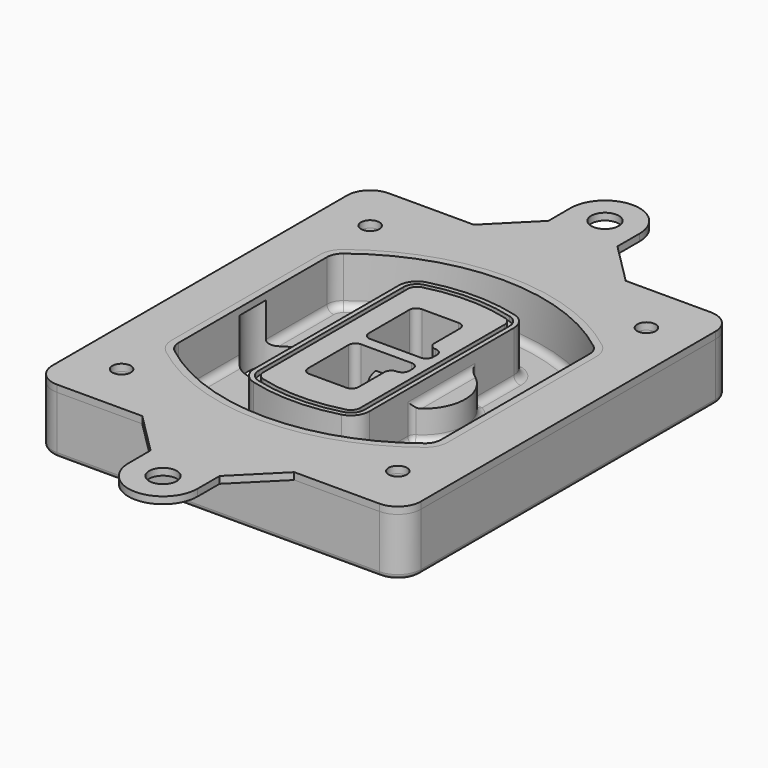
from build123d import *

# Parameters (mm, degrees)
F0_R      = 4
F1_DEPTH  = 25
F2_DEPTH  = 3
F3_DEPTH  = 18
F5_DEPTH  = 21
F6_DEPTH  = 2
F8_DEPTH  = 20
F9_DEPTH  = 16
F10_DEPTH = 25
F7_R      = 6
F7_R_2    = 4
F11_DEPTH = 6
F13_DEPTH = 9
F14_R     = 3
F15_R     = 2
F16_R     = 6
F16_R_2   = 4
F17_DEPTH = 3


with BuildPart() as f1:
    # F0 (on Top) → F1 (new body)
    with BuildSketch(Plane.XY):
        with BuildLine():
            ThreePointArc((-80, -80), (-77.0710678119, -87.0710678119), (-70, -90))
            Line((-70, -90), (70, -90))
            ThreePointArc((70, -90), (77.0710678119, -87.0710678119), (80, -80))
            Line((80, -80), (80, 80))
            ThreePointArc((80, 80), (77.0710678119, 87.0710678119), (70, 90))
            Line((70, 90), (-70, 90))
            ThreePointArc((-70, 90), (-77.0710678119, 87.0710678119), (-80, 80))
            Line((-80, 80), (-80, -80))
        make_face()
        with Locations((-60, -67.5)):
            Circle(F0_R, mode=Mode.SUBTRACT)
        with Locations((60, -67.5)):
            Circle(F0_R, mode=Mode.SUBTRACT)
        with Locations((-60, 67.5)):
            Circle(F0_R, mode=Mode.SUBTRACT)
        with BuildLine():
            ThreePointArc((-64, 40.2934422872), (-62.5820384798, 46.4328484224), (-58.6153846154, 51.3286200352))
            ThreePointArc((-58.6153846154, 51.3286200352), (0, 71.5), (58.6153846154, 51.3286200352))
            ThreePointArc((58.6153846154, 51.3286200352), (62.5820384798, 46.4328484224), (64, 40.2934422872))
            Line((64, 40.2934422872), (64, -40.2934422872))
            ThreePointArc((64, -40.2934422872), (62.5820384798, -46.4328484224), (58.6153846154, -51.3286200352))
            ThreePointArc((58.6153846154, -51.3286200352), (0, -71.5), (-58.6153846154, -51.3286200352))
            ThreePointArc((-58.6153846154, -51.3286200352), (-62.5820384798, -46.4328484224), (-64, -40.2934422872))
            Line((-64, -40.2934422872), (-64, 40.2934422872))
        make_face(mode=Mode.SUBTRACT)
        with Locations((60, 67.5)):
            Circle(F0_R, mode=Mode.SUBTRACT)
        with BuildLine():
            ThreePointArc((58.6153846154, 51.3286200352), (0, 71.5), (-58.6153846154, 51.3286200352))
            ThreePointArc((-58.6153846154, 51.3286200352), (-62.5820384798, 46.4328484224), (-64, 40.2934422872))
            Line((-64, 40.2934422872), (-64, -40.2934422872))
            ThreePointArc((-64, -40.2934422872), (-62.5820384798, -46.4328484224), (-58.6153846154, -51.3286200352))
            ThreePointArc((-58.6153846154, -51.3286200352), (0, -71.5), (58.6153846154, -51.3286200352))
            ThreePointArc((58.6153846154, -51.3286200352), (62.5820384798, -46.4328484224), (64, -40.2934422872))
            Line((64, -40.2934422872), (64, 40.2934422872))
            ThreePointArc((64, 40.2934422872), (62.5820384798, 46.4328484224), (58.6153846154, 51.3286200352))
        make_face()
        with BuildLine():
            Line((-60, -40.2934422872), (-60, 40.2934422872))
            ThreePointArc((-60, 40.2934422872), (-58.9871703427, 44.6787323838), (-56.1538461538, 48.1757121072))
            ThreePointArc((-56.1538461538, 48.1757121072), (0, 67.5), (56.1538461538, 48.1757121072))
            ThreePointArc((56.1538461538, 48.1757121072), (58.9871703427, 44.6787323838), (60, 40.2934422872))
            Line((60, 40.2934422872), (60, -40.2934422872))
            ThreePointArc((60, -40.2934422872), (58.9871703427, -44.6787323838), (56.1538461538, -48.1757121072))
            ThreePointArc((56.1538461538, -48.1757121072), (0, -67.5), (-56.1538461538, -48.1757121072))
            ThreePointArc((-56.1538461538, -48.1757121072), (-58.9871703427, -44.6787323838), (-60, -40.2934422872))
        make_face(mode=Mode.SUBTRACT)
        with BuildLine():
            ThreePointArc((-56.1538461538, 48.1757121072), (-58.9871703427, 44.6787323838), (-60, 40.2934422872))
            Line((-60, 40.2934422872), (-60, -40.2934422872))
            ThreePointArc((-60, -40.2934422872), (-58.9871703427, -44.6787323838), (-56.1538461538, -48.1757121072))
            ThreePointArc((-56.1538461538, -48.1757121072), (0, -67.5), (56.1538461538, -48.1757121072))
            ThreePointArc((56.1538461538, -48.1757121072), (58.9871703427, -44.6787323838), (60, -40.2934422872))
            Line((60, -40.2934422872), (60, 40.2934422872))
            ThreePointArc((60, 40.2934422872), (58.9871703427, 44.6787323838), (56.1538461538, 48.1757121072))
            ThreePointArc((56.1538461538, 48.1757121072), (0, 67.5), (-56.1538461538, 48.1757121072))
        make_face()
        with BuildLine():
            ThreePointArc((54.3076923077, 45.8110311612), (56.2910192399, 43.3631453548), (57, 40.2934422872))
            Line((57, 40.2934422872), (57, -40.2934422872))
            ThreePointArc((57, -40.2934422872), (56.2910192399, -43.3631453548), (54.3076923077, -45.8110311612))
            ThreePointArc((54.3076923077, -45.8110311612), (0, -64.5), (-54.3076923077, -45.8110311612))
            ThreePointArc((-54.3076923077, -45.8110311612), (-56.2910192399, -43.3631453548), (-57, -40.2934422872))
            Line((-57, -40.2934422872), (-57, 40.2934422872))
            ThreePointArc((-57, 40.2934422872), (-56.2910192399, 43.3631453548), (-54.3076923077, 45.8110311612))
            ThreePointArc((-54.3076923077, 45.8110311612), (0, 64.5), (54.3076923077, 45.8110311612))
        make_face(mode=Mode.SUBTRACT)
        with BuildLine():
            Line((57, -40.2934422872), (57, 40.2934422872))
            ThreePointArc((57, 40.2934422872), (56.2910192399, 43.3631453548), (54.3076923077, 45.8110311612))
            ThreePointArc((54.3076923077, 45.8110311612), (0, 64.5), (-54.3076923077, 45.8110311612))
            ThreePointArc((-54.3076923077, 45.8110311612), (-56.2910192399, 43.3631453548), (-57, 40.2934422872))
            Line((-57, 40.2934422872), (-57, -40.2934422872))
            ThreePointArc((-57, -40.2934422872), (-56.2910192399, -43.3631453548), (-54.3076923077, -45.8110311612))
            ThreePointArc((-54.3076923077, -45.8110311612), (0, -64.5), (54.3076923077, -45.8110311612))
            ThreePointArc((54.3076923077, -45.8110311612), (56.2910192399, -43.3631453548), (57, -40.2934422872))
        make_face()
    extrude(amount=-F1_DEPTH)

    # F0 (on Top) → F2 (join)
    with BuildSketch(Plane.XY):
        with BuildLine():
            ThreePointArc((-56.1538461538, 48.1757121072), (-58.9871703427, 44.6787323838), (-60, 40.2934422872))
            Line((-60, 40.2934422872), (-60, -40.2934422872))
            ThreePointArc((-60, -40.2934422872), (-58.9871703427, -44.6787323838), (-56.1538461538, -48.1757121072))
            ThreePointArc((-56.1538461538, -48.1757121072), (0, -67.5), (56.1538461538, -48.1757121072))
            ThreePointArc((56.1538461538, -48.1757121072), (58.9871703427, -44.6787323838), (60, -40.2934422872))
            Line((60, -40.2934422872), (60, 40.2934422872))
            ThreePointArc((60, 40.2934422872), (58.9871703427, 44.6787323838), (56.1538461538, 48.1757121072))
            ThreePointArc((56.1538461538, 48.1757121072), (0, 67.5), (-56.1538461538, 48.1757121072))
        make_face()
        with BuildLine():
            ThreePointArc((54.3076923077, 45.8110311612), (56.2910192399, 43.3631453548), (57, 40.2934422872))
            Line((57, 40.2934422872), (57, -40.2934422872))
            ThreePointArc((57, -40.2934422872), (56.2910192399, -43.3631453548), (54.3076923077, -45.8110311612))
            ThreePointArc((54.3076923077, -45.8110311612), (0, -64.5), (-54.3076923077, -45.8110311612))
            ThreePointArc((-54.3076923077, -45.8110311612), (-56.2910192399, -43.3631453548), (-57, -40.2934422872))
            Line((-57, -40.2934422872), (-57, 40.2934422872))
            ThreePointArc((-57, 40.2934422872), (-56.2910192399, 43.3631453548), (-54.3076923077, 45.8110311612))
            ThreePointArc((-54.3076923077, 45.8110311612), (0, 64.5), (54.3076923077, 45.8110311612))
        make_face(mode=Mode.SUBTRACT)
    extrude(amount=F2_DEPTH)

    # F0 (on Top) → F3 (cut)
    with BuildSketch(Plane.XY):
        with BuildLine():
            Line((57, -40.2934422872), (57, 40.2934422872))
            ThreePointArc((57, 40.2934422872), (56.2910192399, 43.3631453548), (54.3076923077, 45.8110311612))
            ThreePointArc((54.3076923077, 45.8110311612), (0, 64.5), (-54.3076923077, 45.8110311612))
            ThreePointArc((-54.3076923077, 45.8110311612), (-56.2910192399, 43.3631453548), (-57, 40.2934422872))
            Line((-57, 40.2934422872), (-57, -40.2934422872))
            ThreePointArc((-57, -40.2934422872), (-56.2910192399, -43.3631453548), (-54.3076923077, -45.8110311612))
            ThreePointArc((-54.3076923077, -45.8110311612), (0, -64.5), (54.3076923077, -45.8110311612))
            ThreePointArc((54.3076923077, -45.8110311612), (56.2910192399, -43.3631453548), (57, -40.2934422872))
        make_face()
    extrude(amount=-F3_DEPTH, mode=Mode.SUBTRACT)

    # F4 (on face) → F5 (join, through all)
    with BuildSketch(Plane.XY.offset(3)):
        with BuildLine():
            ThreePointArc((-25, -39.2465276821), (-23.3511545998, -44.1109737193), (-19.0842911877, -46.9702398883))
            ThreePointArc((-19.0842911877, -46.9702398883), (0, -49.5), (19.0842911877, -46.9702398883))
            ThreePointArc((19.0842911877, -46.9702398883), (23.3511545998, -44.1109737193), (25, -39.2465276821))
            Line((25, -39.2465276821), (25, 39.2465276821))
            ThreePointArc((25, 39.2465276821), (23.3511545998, 44.1109737193), (19.0842911877, 46.9702398883))
            ThreePointArc((19.0842911877, 46.9702398883), (0, 49.5), (-19.0842911877, 46.9702398883))
            ThreePointArc((-19.0842911877, 46.9702398883), (-23.3511545998, 44.1109737193), (-25, 39.2465276821))
            Line((-25, 39.2465276821), (-25, -39.2465276821))
        make_face()
        with BuildLine():
            ThreePointArc((18.5632183908, 45.0393118368), (21.7633659499, 42.89486221), (23, 39.2465276821))
            Line((23, 39.2465276821), (23, -39.2465276821))
            ThreePointArc((23, -39.2465276821), (21.7633659499, -42.89486221), (18.5632183908, -45.0393118368))
            ThreePointArc((18.5632183908, -45.0393118368), (0, -47.5), (-18.5632183908, -45.0393118368))
            ThreePointArc((-18.5632183908, -45.0393118368), (-21.7633659499, -42.89486221), (-23, -39.2465276821))
            Line((-23, -39.2465276821), (-23, 39.2465276821))
            ThreePointArc((-23, 39.2465276821), (-21.7633659499, 42.89486221), (-18.5632183908, 45.0393118368))
            ThreePointArc((-18.5632183908, 45.0393118368), (0, 47.5), (18.5632183908, 45.0393118368))
        make_face(mode=Mode.SUBTRACT)
        with BuildLine():
            Line((23, -39.2465276821), (23, 39.2465276821))
            ThreePointArc((23, 39.2465276821), (21.7633659499, 42.89486221), (18.5632183908, 45.0393118368))
            ThreePointArc((18.5632183908, 45.0393118368), (0, 47.5), (-18.5632183908, 45.0393118368))
            ThreePointArc((-18.5632183908, 45.0393118368), (-21.7633659499, 42.89486221), (-23, 39.2465276821))
            Line((-23, 39.2465276821), (-23, -39.2465276821))
            ThreePointArc((-23, -39.2465276821), (-21.7633659499, -42.89486221), (-18.5632183908, -45.0393118368))
            ThreePointArc((-18.5632183908, -45.0393118368), (0, -47.5), (18.5632183908, -45.0393118368))
            ThreePointArc((18.5632183908, -45.0393118368), (21.7633659499, -42.89486221), (23, -39.2465276821))
        make_face()
        with BuildLine():
            ThreePointArc((18.0421455939, 43.1083837852), (20.1755772999, 41.6787507007), (21, 39.2465276821))
            Line((21, 39.2465276821), (21, -39.2465276821))
            ThreePointArc((21, -39.2465276821), (20.1755772999, -41.6787507007), (18.0421455939, -43.1083837852))
            ThreePointArc((18.0421455939, -43.1083837852), (0, -45.5), (-18.0421455939, -43.1083837852))
            ThreePointArc((-18.0421455939, -43.1083837852), (-20.1755772999, -41.6787507007), (-21, -39.2465276821))
            Line((-21, -39.2465276821), (-21, 39.2465276821))
            ThreePointArc((-21, 39.2465276821), (-20.1755772999, 41.6787507007), (-18.0421455939, 43.1083837852))
            ThreePointArc((-18.0421455939, 43.1083837852), (0, 45.5), (18.0421455939, 43.1083837852))
        make_face(mode=Mode.SUBTRACT)
        with BuildLine():
            Line((21, -39.2465276821), (21, 39.2465276821))
            ThreePointArc((21, 39.2465276821), (20.1755772999, 41.6787507007), (18.0421455939, 43.1083837852))
            ThreePointArc((18.0421455939, 43.1083837852), (0, 45.5), (-18.0421455939, 43.1083837852))
            ThreePointArc((-18.0421455939, 43.1083837852), (-20.1755772999, 41.6787507007), (-21, 39.2465276821))
            Line((-21, 39.2465276821), (-21, -39.2465276821))
            ThreePointArc((-21, -39.2465276821), (-20.1755772999, -41.6787507007), (-18.0421455939, -43.1083837852))
            ThreePointArc((-18.0421455939, -43.1083837852), (0, -45.5), (18.0421455939, -43.1083837852))
            ThreePointArc((18.0421455939, -43.1083837852), (20.1755772999, -41.6787507007), (21, -39.2465276821))
        make_face()
        with BuildLine():
            Line((-8, -2.5), (14, -2.5))
            ThreePointArc((14, -2.5), (16.1213203436, -3.3786796564), (17, -5.5))
            Line((17, -5.5), (17, -7.5))
            ThreePointArc((17, -7.5), (16.1213203436, -9.6213203436), (14, -10.5))
            ThreePointArc((14, -10.5), (11.8786796564, -11.3786796564), (11, -13.5))
            Line((11, -13.5), (11, -27.5))
            ThreePointArc((11, -27.5), (10.1213203436, -29.6213203436), (8, -30.5))
            Line((8, -30.5), (-8, -30.5))
            ThreePointArc((-8, -30.5), (-10.1213203436, -29.6213203436), (-11, -27.5))
            Line((-11, -27.5), (-11, -5.5))
            ThreePointArc((-11, -5.5), (-10.1213203436, -3.3786796564), (-8, -2.5))
        make_face(mode=Mode.SUBTRACT)
        with BuildLine():
            ThreePointArc((-8, 2.5), (-10.1213203436, 3.3786796564), (-11, 5.5))
            Line((-11, 5.5), (-11, 27.5))
            ThreePointArc((-11, 27.5), (-10.1213203436, 29.6213203436), (-8, 30.5))
            Line((-8, 30.5), (8, 30.5))
            ThreePointArc((8, 30.5), (10.1213203436, 29.6213203436), (11, 27.5))
            Line((11, 27.5), (11, 13.5))
            ThreePointArc((11, 13.5), (11.8786796564, 11.3786796564), (14, 10.5))
            ThreePointArc((14, 10.5), (16.1213203436, 9.6213203436), (17, 7.5))
            Line((17, 7.5), (17, 5.5))
            ThreePointArc((17, 5.5), (16.1213203436, 3.3786796564), (14, 2.5))
            Line((14, 2.5), (-8, 2.5))
        make_face(mode=Mode.SUBTRACT)
    extrude(amount=-F5_DEPTH)

    # F4 (on face) → F6 (cut)
    with BuildSketch(Plane.XY.offset(3)):
        with BuildLine():
            Line((23, -39.2465276821), (23, 39.2465276821))
            ThreePointArc((23, 39.2465276821), (21.7633659499, 42.89486221), (18.5632183908, 45.0393118368))
            ThreePointArc((18.5632183908, 45.0393118368), (0, 47.5), (-18.5632183908, 45.0393118368))
            ThreePointArc((-18.5632183908, 45.0393118368), (-21.7633659499, 42.89486221), (-23, 39.2465276821))
            Line((-23, 39.2465276821), (-23, -39.2465276821))
            ThreePointArc((-23, -39.2465276821), (-21.7633659499, -42.89486221), (-18.5632183908, -45.0393118368))
            ThreePointArc((-18.5632183908, -45.0393118368), (0, -47.5), (18.5632183908, -45.0393118368))
            ThreePointArc((18.5632183908, -45.0393118368), (21.7633659499, -42.89486221), (23, -39.2465276821))
        make_face()
        with BuildLine():
            ThreePointArc((18.0421455939, 43.1083837852), (20.1755772999, 41.6787507007), (21, 39.2465276821))
            Line((21, 39.2465276821), (21, -39.2465276821))
            ThreePointArc((21, -39.2465276821), (20.1755772999, -41.6787507007), (18.0421455939, -43.1083837852))
            ThreePointArc((18.0421455939, -43.1083837852), (0, -45.5), (-18.0421455939, -43.1083837852))
            ThreePointArc((-18.0421455939, -43.1083837852), (-20.1755772999, -41.6787507007), (-21, -39.2465276821))
            Line((-21, -39.2465276821), (-21, 39.2465276821))
            ThreePointArc((-21, 39.2465276821), (-20.1755772999, 41.6787507007), (-18.0421455939, 43.1083837852))
            ThreePointArc((-18.0421455939, 43.1083837852), (0, 45.5), (18.0421455939, 43.1083837852))
        make_face(mode=Mode.SUBTRACT)
    extrude(amount=-F6_DEPTH, mode=Mode.SUBTRACT)

    # F7 (on face) → F8 (join)
    with BuildSketch(Plane(origin=(0, 0, -25), x_dir=(1, 0, 0), z_dir=(0, 0, -1))):
        with BuildLine():
            ThreePointArc((3.28842436, 0), (16.7567035675, 13.4682792075), (30.224982775, 0))
            Line((30.224982775, 0), (35.224982775, 0))
            ThreePointArc((35.224982775, 0), (16.7567035675, 18.4682792075), (-1.71157564, 0))
            Line((-1.71157564, 0), (3.28842436, 0))
        make_face()
        with BuildLine():
            Line((3.28842436, 0), (30.224982775, 0))
            ThreePointArc((30.224982775, 0), (16.7567035675, 13.4682792075), (3.28842436, 0))
        make_face()
        with BuildLine():
            ThreePointArc((3.28842436, 0), (16.7567035675, -13.4682792075), (30.224982775, 0))
            Line((30.224982775, 0), (3.28842436, 0))
        make_face()
        with BuildLine():
            Line((35.224982775, 0), (30.224982775, 0))
            ThreePointArc((30.224982775, 0), (16.7567035675, -13.4682792075), (3.28842436, 0))
            Line((3.28842436, 0), (-1.71157564, 0))
            ThreePointArc((-1.71157564, 0), (16.7567035675, -18.4682792075), (35.224982775, 0))
        make_face()
    extrude(amount=-F8_DEPTH)

    # F7 (on face) → F9 (cut)
    with BuildSketch(Plane(origin=(0, 0, -25), x_dir=(1, 0, 0), z_dir=(0, 0, -1))):
        with BuildLine():
            Line((3.28842436, 0), (30.224982775, 0))
            ThreePointArc((30.224982775, 0), (16.7567035675, 13.4682792075), (3.28842436, 0))
        make_face()
        with BuildLine():
            ThreePointArc((3.28842436, 0), (16.7567035675, -13.4682792075), (30.224982775, 0))
            Line((30.224982775, 0), (3.28842436, 0))
        make_face()
    extrude(amount=-F9_DEPTH, mode=Mode.SUBTRACT)

    # F7 (on face) → F10 (cut)
    with BuildSketch(Plane(origin=(0, 0, -25), x_dir=(1, 0, 0), z_dir=(0, 0, -1))):
        with BuildLine():
            Line((-59.0318229325, 0), (-32.0952645175, 0))
            ThreePointArc((-32.0952645175, 0), (-45.563543725, 13.4682792075), (-59.0318229325, 0))
        make_face()
        with BuildLine():
            ThreePointArc((-59.0318229325, 0), (-45.563543725, -13.4682792075), (-32.0952645175, 0))
            Line((-32.0952645175, 0), (-59.0318229325, 0))
        make_face()
    extrude(amount=-F10_DEPTH, mode=Mode.SUBTRACT)

    # F7 (on face) → F11 (cut)
    with BuildSketch(Plane(origin=(0, 0, -25), x_dir=(1, 0, 0), z_dir=(0, 0, -1))):
        with Locations((60, -67.5)):
            Circle(F7_R)
        with Locations((60, -67.5)):
            Circle(F7_R_2, mode=Mode.SUBTRACT)
        with Locations((60, -67.5)):
            Circle(F7_R)
        with Locations((60, -67.5)):
            Circle(F7_R_2, mode=Mode.SUBTRACT)
        with Locations((-60, -67.5)):
            Circle(F7_R)
        with Locations((-60, -67.5)):
            Circle(F7_R_2, mode=Mode.SUBTRACT)
        with Locations((-60, -67.5)):
            Circle(F7_R)
        with Locations((-60, -67.5)):
            Circle(F7_R_2, mode=Mode.SUBTRACT)
        with Locations((-60, 67.5)):
            Circle(F7_R)
        with Locations((-60, 67.5)):
            Circle(F7_R_2, mode=Mode.SUBTRACT)
        with Locations((-60, 67.5)):
            Circle(F7_R)
        with Locations((-60, 67.5)):
            Circle(F7_R_2, mode=Mode.SUBTRACT)
        with Locations((60, 67.5)):
            Circle(F7_R)
        with Locations((60, 67.5)):
            Circle(F7_R_2, mode=Mode.SUBTRACT)
        with Locations((60, 67.5)):
            Circle(F7_R)
        with Locations((60, 67.5)):
            Circle(F7_R_2, mode=Mode.SUBTRACT)
    extrude(amount=-F11_DEPTH, mode=Mode.SUBTRACT)

    # F12 (on face) → F13 (cut, through all)
    with BuildSketch(Plane(origin=(0, 0, -9), x_dir=(1, 0, 0), z_dir=(0, 0, -1))):
        with BuildLine():
            Line((11, 13.5), (11, 17.5481537753))
            ThreePointArc((11, 17.5481537753), (2.5696536419, 11.8239143813), (-1.5415842455, 2.5))
            Line((-1.5415842455, 2.5), (3.5224848595, 2.5))
            ThreePointArc((3.5224848595, 2.5), (6.1857188154, 8.3455872281), (11.2536447004, 12.2927168648))
            ThreePointArc((11.2536447004, 12.2927168648), (11.0640958889, 12.8831798879), (11, 13.5))
        make_face()
        with BuildLine():
            ThreePointArc((11.2536447004, -12.2927168648), (6.1857188154, -8.3455872281), (3.5224848595, -2.5))
            Line((3.5224848595, -2.5), (-1.5415842455, -2.5))
            ThreePointArc((-1.5415842455, -2.5), (2.5696536419, -11.8239143813), (11, -17.5481537753))
            Line((11, -17.5481537753), (11, -13.5))
            ThreePointArc((11, -13.5), (11.0640958889, -12.8831798879), (11.2536447004, -12.2927168648))
        make_face()
        with BuildLine():
            ThreePointArc((11.2536447004, 12.2927168648), (6.1857188154, 8.3455872281), (3.5224848595, 2.5))
            Line((3.5224848595, 2.5), (14, 2.5))
            ThreePointArc((14, 2.5), (16.1213203436, 3.3786796564), (17, 5.5))
            Line((17, 5.5), (17, 7.5))
            ThreePointArc((17, 7.5), (16.1213203436, 9.6213203436), (14, 10.5))
            ThreePointArc((14, 10.5), (12.3601599782, 10.9878446101), (11.2536447004, 12.2927168648))
        make_face()
        with BuildLine():
            Line((14, -2.5), (3.5224848595, -2.5))
            ThreePointArc((3.5224848595, -2.5), (6.1857188154, -8.3455872281), (11.2536447004, -12.2927168648))
            ThreePointArc((11.2536447004, -12.2927168648), (12.3601599782, -10.9878446101), (14, -10.5))
            ThreePointArc((14, -10.5), (16.1213203436, -9.6213203436), (17, -7.5))
            Line((17, -7.5), (17, -5.5))
            ThreePointArc((17, -5.5), (16.1213203436, -3.3786796564), (14, -2.5))
        make_face()
    extrude(amount=F13_DEPTH, mode=Mode.SUBTRACT)

    # F14
    f14_edges = [f1.edges().sort_by_distance(p)[0] for p in [
        (-57, -23.703476, -18),
        (-57, 23.703476, -18),
        (25, 0, -5),
        (25, 16.526506, -11.5),
        (25, -16.526506, -11.5),
        (25, -27.886517, -18),
        (35.224983, 0, -18),
    ]]
    fillet(f14_edges, radius=F14_R)

    # F15
    f15_edges = [f1.edges().sort_by_distance(p)[0] for p in [
        (0, -90, -25),
    ]]
    fillet(f15_edges, radius=F15_R)


with BuildPart() as f17:
    # F16 (on face) → F17 (new body, through all)
    with BuildSketch(Plane.XY):
        with BuildLine():
            Line((15, 108), (15, 120))
            ThreePointArc((15, 120), (0, 135), (-15, 120))
            Line((-15, 120), (-15, 108))
            Line((-15, 108), (-33, 90))
            Line((-33, 90), (33, 90))
            Line((33, 90), (15, 108))
        make_face()
        with Locations((0, 120)):
            Circle(F16_R, mode=Mode.SUBTRACT)
        with BuildLine():
            Line((15, -108), (33, -90))
            Line((33, -90), (-33, -90))
            Line((-33, -90), (-15, -108))
            Line((-15, -108), (-15, -120))
            ThreePointArc((-15, -120), (0, -135), (15, -120))
            Line((15, -120), (15, -108))
        make_face()
        with Locations((0, -120)):
            Circle(F16_R, mode=Mode.SUBTRACT)
        with BuildLine():
            Line((70, 90), (33, 90))
            Line((33, 90), (-33, 90))
            Line((-33, 90), (-70, 90))
            ThreePointArc((-70, 90), (-77.0710678119, 87.0710678119), (-80, 80))
            Line((-80, 80), (-80, -80))
            ThreePointArc((-80, -80), (-77.0710678119, -87.0710678119), (-70, -90))
            Line((-70, -90), (-33, -90))
            Line((-33, -90), (33, -90))
            Line((33, -90), (70, -90))
            ThreePointArc((70, -90), (77.0710678119, -87.0710678119), (80, -80))
            Line((80, -80), (80, 80))
            ThreePointArc((80, 80), (77.0710678119, 87.0710678119), (70, 90))
        make_face()
        with Locations((-60, -67.5)):
            Circle(F16_R_2, mode=Mode.SUBTRACT)
        with Locations((60, -67.5)):
            Circle(F16_R_2, mode=Mode.SUBTRACT)
        with Locations((-60, 67.5)):
            Circle(F16_R_2, mode=Mode.SUBTRACT)
        with BuildLine():
            ThreePointArc((-60, 40.2934422872), (-58.9871703427, 44.6787323838), (-56.1538461538, 48.1757121072))
            ThreePointArc((-56.1538461538, 48.1757121072), (0, 67.5), (56.1538461538, 48.1757121072))
            ThreePointArc((56.1538461538, 48.1757121072), (58.9871703427, 44.6787323838), (60, 40.2934422872))
            Line((60, 40.2934422872), (60, -40.2934422872))
            ThreePointArc((60, -40.2934422872), (58.9871703427, -44.6787323838), (56.1538461538, -48.1757121072))
            ThreePointArc((56.1538461538, -48.1757121072), (0, -67.5), (-56.1538461538, -48.1757121072))
            ThreePointArc((-56.1538461538, -48.1757121072), (-58.9871703427, -44.6787323838), (-60, -40.2934422872))
            Line((-60, -40.2934422872), (-60, 40.2934422872))
        make_face(mode=Mode.SUBTRACT)
        with Locations((60, 67.5)):
            Circle(F16_R_2, mode=Mode.SUBTRACT)
    extrude(amount=F17_DEPTH)


solid = Compound([f1.part, f17.part])
